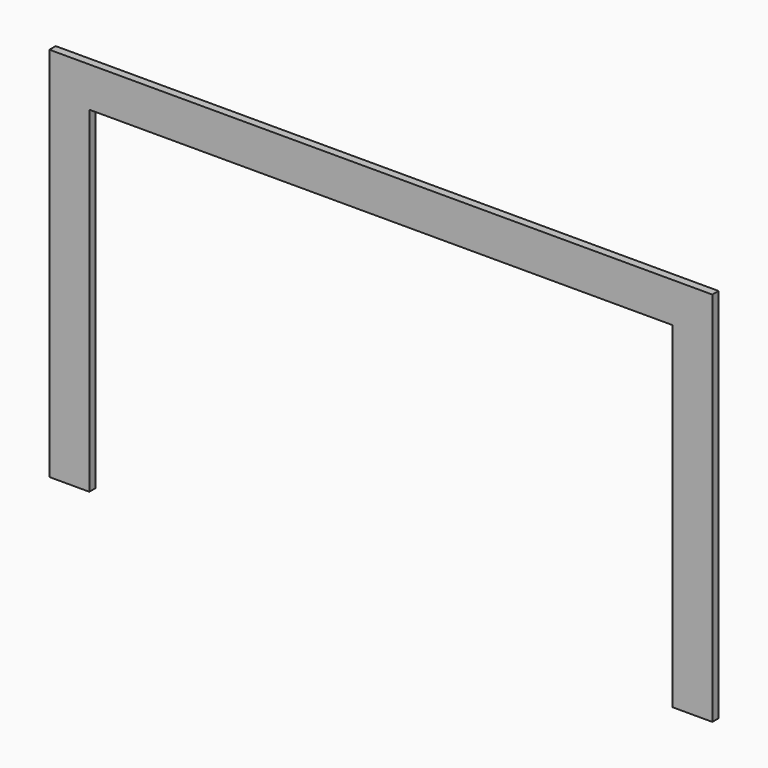
from build123d import *

# Parameters (mm, degrees)
F0_W     = 845.5152
F0_H     = 479.9076
F1_DEPTH = 10
F2_W     = 743.9152
F2_H     = 429.1076
F3_DEPTH = 10.001


with BuildPart() as f1:
    # F0 (on Front) → F1 (new body)
    with BuildSketch(Plane.XZ):
        Rectangle(F0_W, F0_H)
    extrude(amount=F1_DEPTH)

    # F2 (on face) → F3 (cut, through all)
    with BuildSketch(Plane(origin=(0, 0, 0), x_dir=(-1, 0, 0), z_dir=(0, 1, 0))):
        with Locations((0, -25.4)):
            Rectangle(F2_W, F2_H)
    extrude(amount=-F3_DEPTH, mode=Mode.SUBTRACT)


solid = f1.part
